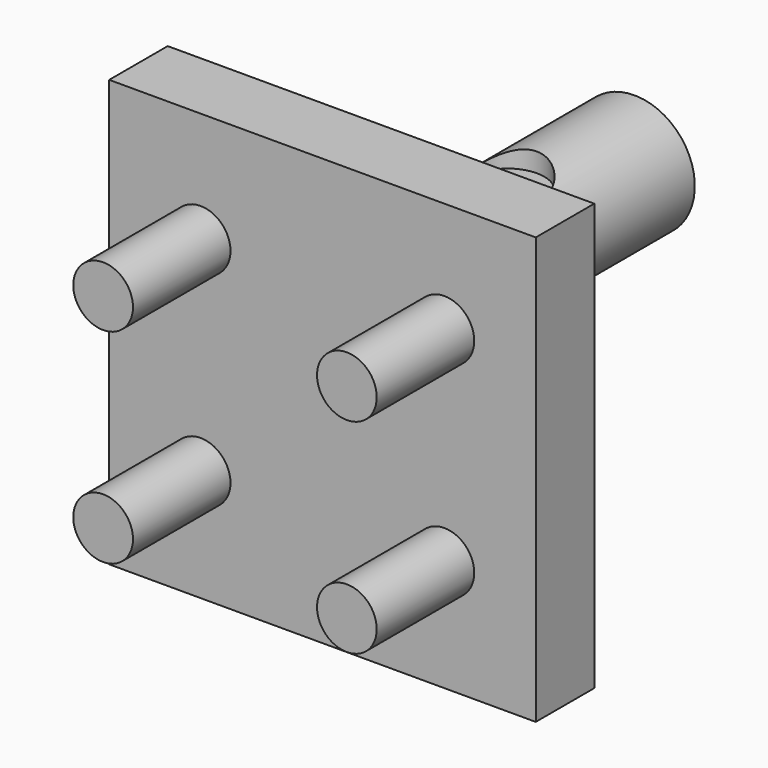
from build123d import *

# Parameters (mm, degrees)
F0_W     = 44.45
F0_H     = 44.45
F1_DEPTH = 7.62
F2_R     = 3.1115
F3_DEPTH = 12.7
F4_R     = 6.2865
F5_DEPTH = 33.02
F6_R     = 3.81
F7_DEPTH = 12.7


with BuildPart() as f1:
    # F0 (on Front) → F1 (new body)
    with BuildSketch(Plane.XZ):
        Rectangle(F0_W, F0_H)
    extrude(amount=F1_DEPTH)

    # F2 (on face) → F3 (join)
    with BuildSketch(Plane.XZ.offset(7.62)):
        with Locations((-12.7, 10.641133)):
            Circle(F2_R)
        with Locations((12.7, 10.641133)):
            Circle(F2_R)
        with Locations((12.7, -10.641133)):
            Circle(F2_R)
        with Locations((-12.7, -10.641133)):
            Circle(F2_R)
    extrude(amount=F3_DEPTH)

    # F4 (on face) → F5 (join)
    with BuildSketch(Plane(origin=(0, 0, 0), x_dir=(-1, 0, 0), z_dir=(0, 1, 0))):
        with Locations((0, 5.233867)):
            Circle(F4_R)
    extrude(amount=F5_DEPTH)

    # F6 (on face) → F7 (cut)
    with BuildSketch(Plane.XY.offset(22.225)):
        with Locations((0, 16.51)):
            Circle(F6_R)
    extrude(amount=-F7_DEPTH, mode=Mode.SUBTRACT)


solid = f1.part
